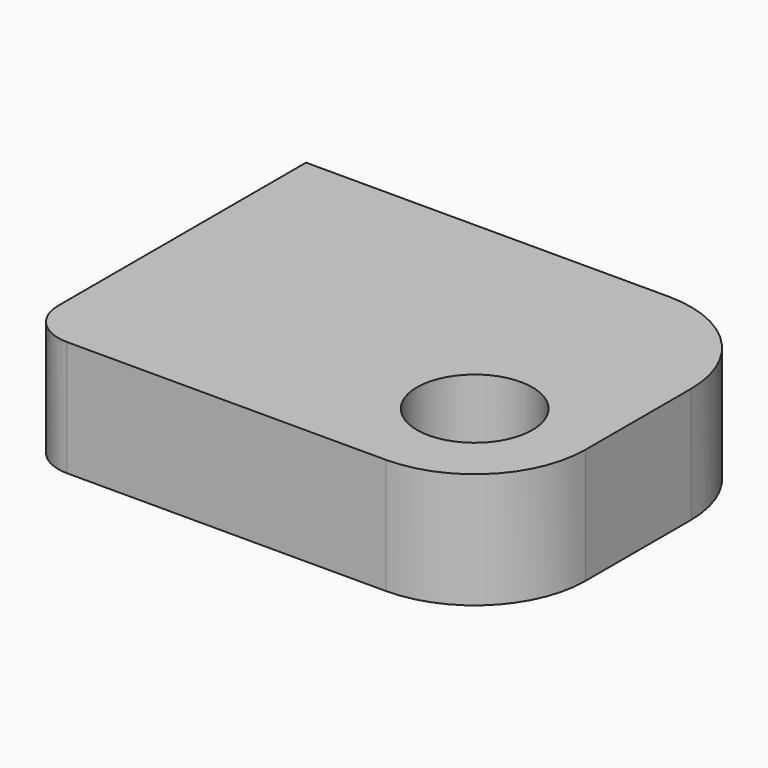
from build123d import *

# Parameters (mm, degrees)
F1_DEPTH = 5
F2_D     = 5


with BuildPart() as f1:
    # F0 (on Top) → F1 (new body)
    with BuildSketch(Plane.XY):
        with BuildLine():
            Line((5.45, 7.65), (-10.25, 7.65))
            Line((-10.25, 7.65), (-10.25, -5.75))
            ThreePointArc((-10.25, -5.75), (-9.6935028843, -7.0935028843), (-8.35, -7.65))
            Line((-8.35, -7.65), (5.45, -7.65))
            ThreePointArc((5.45, -7.65), (8.8441125497, -6.2441125497), (10.25, -2.85))
            Line((10.25, -2.85), (10.25, 2.85))
            ThreePointArc((10.25, 2.85), (8.8441125497, 6.2441125497), (5.45, 7.65))
        make_face()
    extrude(amount=F1_DEPTH)

    # F2 (through all)
    with Locations(Plane(origin=(0, 0, 0), x_dir=(1, 0, 0), z_dir=(0, 0, -1))):
        with Locations((5.45, 2.85)):
            Hole(F2_D / 2)


solid = f1.part
